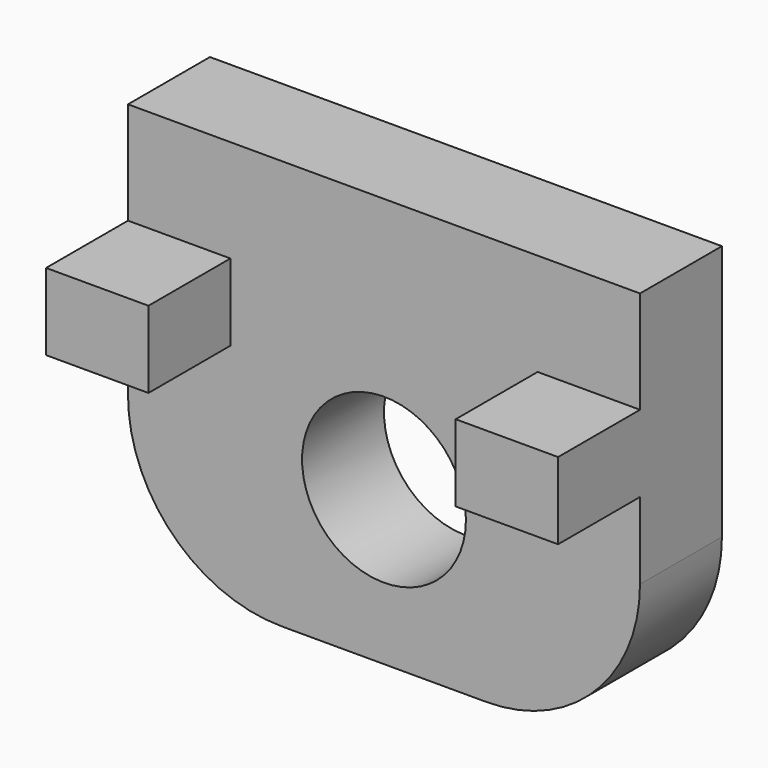
from build123d import *

# Parameters (mm, degrees)
CYLINDER070_R     = 1.6
CYLINDER070_DEPTH = 2
BOX178_W          = 10
BOX178_H          = 2
BOX178_DEPTH      = 8
FILLET039_R       = 3
BOX180_W          = 2
BOX180_H          = 2
BOX180_DEPTH      = 1.5
BOX179_W          = 2
BOX179_H          = 2
BOX179_DEPTH      = 1.5


with BuildPart() as cylinder151:
    # Cylinder070 → Cylinder070 (new body)
    with BuildSketch(Plane(origin=(35, 33, -22), x_dir=(1, 0, 0), z_dir=(0, -1, 0))):
        Circle(CYLINDER070_R)
    extrude(amount=CYLINDER070_DEPTH)


with BuildPart() as fillet039:
    # Box178 → Box178 (new body)
    with BuildSketch(Plane(origin=(30, 31, -25), x_dir=(1, 0, 0), z_dir=(0, 0, 1))):
        with Locations((5, 1)):
            Rectangle(BOX178_W, BOX178_H)
    extrude(amount=BOX178_DEPTH)

    # Cut094: cut Cylinder151
    add(cylinder151.part, mode=Mode.SUBTRACT)

    # Fillet039
    fillet039_edges = [fillet039.edges().sort_by_distance(p)[0] for p in [
        (30, 32, -25),
        (40, 32, -25),
    ]]
    fillet(fillet039_edges, radius=FILLET039_R)


with BuildPart() as cube169:
    # Box180 → Box180 (new body)
    with BuildSketch(Plane(origin=(30, 29, -20.5), x_dir=(1, 0, 0), z_dir=(0, 0, 1))):
        with Locations((1, 1)):
            Rectangle(BOX180_W, BOX180_H)
    extrude(amount=BOX180_DEPTH)


with BuildPart() as fusion054:
    # Box179 → Box179 (new body)
    with BuildSketch(Plane(origin=(38, 29, -20.5), x_dir=(1, 0, 0), z_dir=(0, 0, 1))):
        with Locations((1, 1)):
            Rectangle(BOX179_W, BOX179_H)
    extrude(amount=BOX179_DEPTH)

    # Fusion054: union Fillet039, Cube169
    add(fillet039.part)
    add(cube169.part)


solid = fusion054.part
